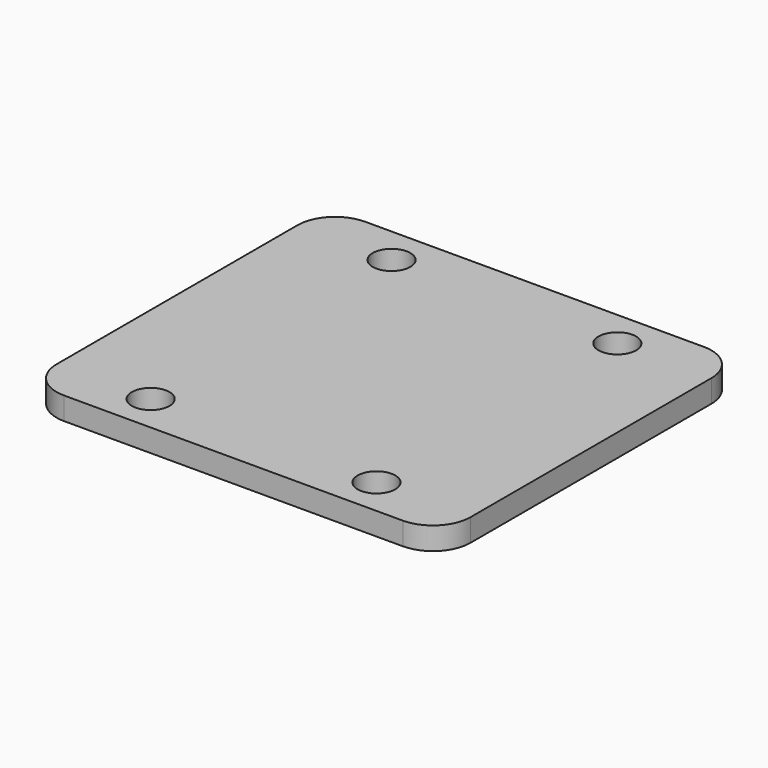
from build123d import *

# Parameters (mm, degrees)
F0_W     = 55
F0_H     = 50
F0_R     = 2.5
F1_DEPTH = 3
F2_R     = 5


with BuildPart() as f1:
    # F0 (on Top) → F1 (new body)
    with BuildSketch(Plane.XY):
        Rectangle(F0_W, F0_H)
        with Locations((-15, -20)):
            Circle(F0_R, mode=Mode.SUBTRACT)
        with Locations((15, -20)):
            Circle(F0_R, mode=Mode.SUBTRACT)
        with Locations((-15, 20)):
            Circle(F0_R, mode=Mode.SUBTRACT)
        with Locations((15, 20)):
            Circle(F0_R, mode=Mode.SUBTRACT)
    extrude(amount=F1_DEPTH)

    # F2
    f2_edges = [f1.edges().sort_by_distance(p)[0] for p in [
        (-27.5, 25, 1.5),
        (27.5, 25, 1.5),
        (-27.5, -25, 1.5),
        (27.5, -25, 1.5),
    ]]
    fillet(f2_edges, radius=F2_R)


solid = f1.part
